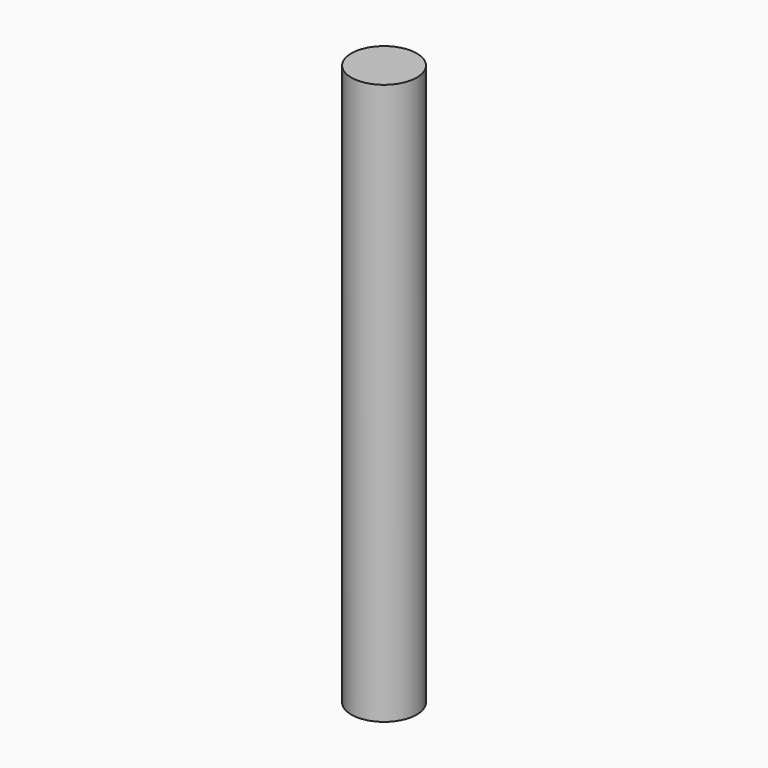
from build123d import *

# Parameters (mm, degrees)
CYLINDER_R     = 0.8763
CYLINDER_DEPTH = 15


with BuildPart() as part:
    # Cylinder → Cylinder (new body)
    with BuildSketch(Plane.XY.offset(-2.5)):
        Circle(CYLINDER_R)
    extrude(amount=CYLINDER_DEPTH)


solid = part.part
